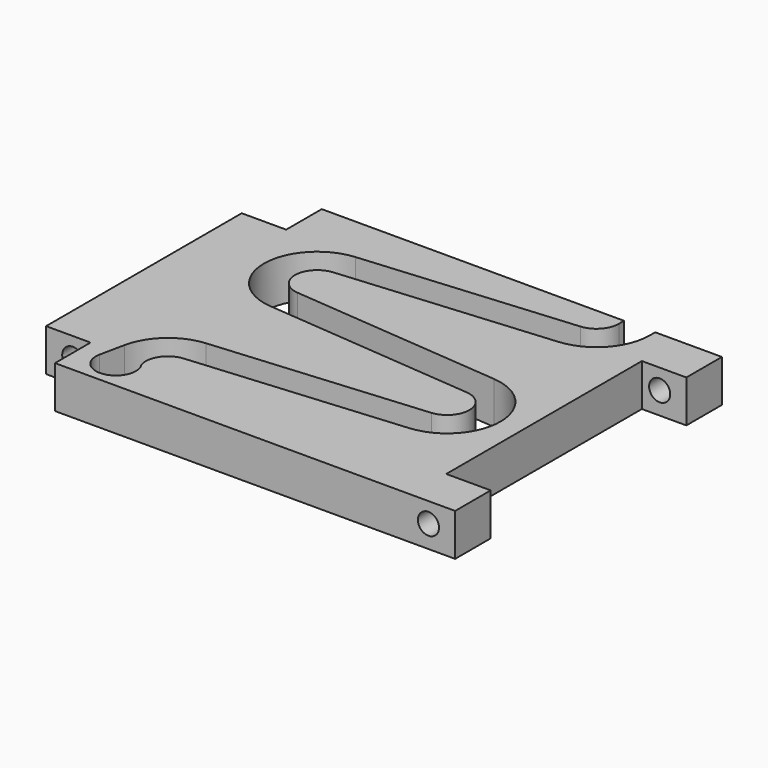
from build123d import *

# Parameters (mm, degrees)
F0_W     = 200
F0_H     = 150
F1_DEPTH = 19
F2_W     = 20
F2_H     = 20
F2_H_2   = 110
F3_DEPTH = 19
F4_R     = 4.75
F5_DEPTH = 150
F7_DEPTH = 19


with BuildPart() as f1:
    # F0 (on Top) → F1 (new body)
    with BuildSketch(Plane.XY):
        with Locations((100, 75)):
            Rectangle(F0_W, F0_H)
    extrude(amount=F1_DEPTH)

    # F2 (on face) → F3 (cut)
    with BuildSketch(Plane.XY.offset(19)):
        with Locations((10, 140)):
            Rectangle(F2_W, F2_H)
        with Locations((10, 10)):
            Rectangle(F2_W, F2_H)
        with Locations((190, 75)):
            Rectangle(F2_W, F2_H_2)
    extrude(amount=-F3_DEPTH, mode=Mode.SUBTRACT)

    # F4 (on face) → F5 (cut)
    with BuildSketch(Plane(origin=(0, 150, 0), x_dir=(-1, 0, 0), z_dir=(0, 1, 0))):
        with Locations((-12, 10)):
            Circle(F4_R)
        with Locations((-188, 10)):
            Circle(F4_R)
    extrude(amount=-F5_DEPTH, mode=Mode.SUBTRACT)

    # F6 (on face) → F7 (cut)
    with BuildSketch(Plane.XY.offset(19)):
        with BuildLine():
            Line((170, 147), (170, 150))
            Line((170, 150), (156, 150))
            Line((156, 150), (156, 147))
            ThreePointArc((156, 147), (153.366454, 140.237208), (146.852929, 137.036441))
            Line((146.852929, 137.036441), (51.95297, 128.912542))
            ThreePointArc((51.95297, 128.912542), (30, 105), (51.95297, 81.087458))
            Line((51.95297, 81.087458), (146.852929, 72.963559))
            ThreePointArc((146.852929, 72.963559), (156, 63), (146.852929, 53.036441))
            Line((146.852929, 53.036441), (51.95297, 44.912542))
            ThreePointArc((51.95297, 44.912542), (38.08635, 38.965404), (30.509258, 25.917827))
            Line((30.509258, 25.917827), (28.190972, 14.844185))
            ThreePointArc((28.190972, 14.844185), (38.748466, 4.171474), (44.441179, 18.062496))
            ThreePointArc((44.441179, 18.062496), (45.71082, 26.593702), (53.147071, 30.963559))
            Line((53.147071, 30.963559), (148.04703, 39.087458))
            ThreePointArc((148.04703, 39.087458), (170, 63), (148.04703, 86.912542))
            Line((148.04703, 86.912542), (53.147071, 95.036441))
            ThreePointArc((53.147071, 95.036441), (44, 105), (53.147071, 114.963559))
            Line((53.147071, 114.963559), (148.04703, 123.087458))
            ThreePointArc((148.04703, 123.087458), (163.67949, 130.769299), (170, 147))
        make_face()
    extrude(amount=-F7_DEPTH, mode=Mode.SUBTRACT)


solid = f1.part
